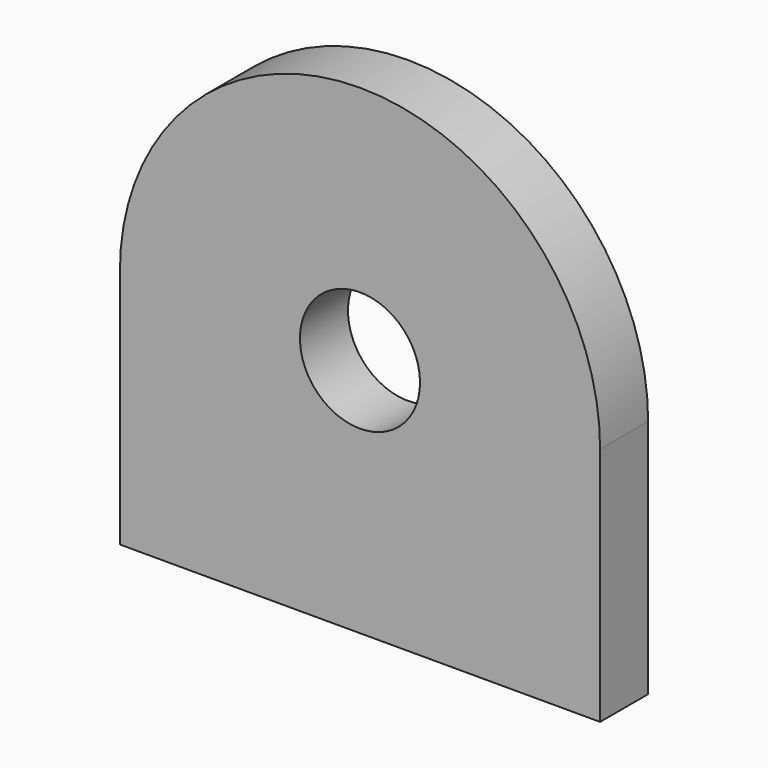
from build123d import *

# Parameters (mm, degrees)
F0_R     = 12.7
F1_DEPTH = 12.7


with BuildPart() as f1:
    # F0 (on Front) → F1 (new body)
    with BuildSketch(Plane.XZ):
        with BuildLine():
            ThreePointArc((50.8, 0), (0, 50.8), (-50.8, 0))
            Line((-50.8, 0), (-50.8, -50.8))
            Line((-50.8, -50.8), (50.8, -50.8))
            Line((50.8, -50.8), (50.8, 0))
        make_face()
        Circle(F0_R, mode=Mode.SUBTRACT)
    extrude(amount=F1_DEPTH)


solid = f1.part
